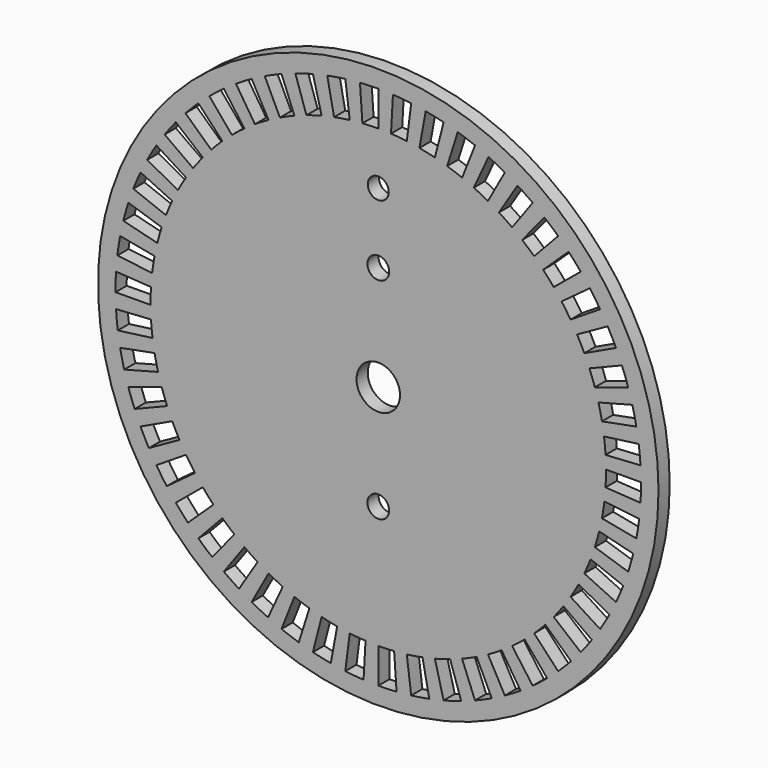
from build123d import *

# Parameters (mm, degrees)
F0_R     = 40
F1_DEPTH = 1
F2_R     = 3.1
F2_R_2   = 1.5
F2_R_3   = 1.55
F3_DEPTH = 6
F5_DEPTH = 12.5


with BuildPart() as f1:
    # F0 (on Front) → F1 (new body, symmetric)
    with BuildSketch(Plane.XZ):
        Circle(F0_R)
    extrude(amount=F1_DEPTH, both=True)

    # F2 (on Front) → F3 (cut, symmetric)
    with BuildSketch(Plane.XZ):
        Circle(F2_R)
        with Locations((0, 25)):
            Circle(F2_R_2)
        with Locations((0, 15)):
            Circle(F2_R_3)
        with Locations((0, -15)):
            Circle(F2_R_3)
    extrude(amount=F3_DEPTH, both=True, mode=Mode.SUBTRACT)

    # F4 (on Front) → F5 (cut, symmetric)
    with BuildSketch(Plane.XZ):
        with BuildLine():
            ThreePointArc((-2.26369, 32.421069), (-1.132533, 32.480261), (0, 32.5))
            Line((0, 32.5), (0, 37.5))
            ThreePointArc((0, 37.5), (-1.306769, 37.477224), (-2.61195, 37.408926))
            Line((-2.61195, 37.408926), (-2.26369, 32.421069))
        make_face()
        with BuildLine():
            Line((-7.279936, 36.786581), (-6.309278, 31.881703))
            ThreePointArc((-6.309278, 31.881703), (-5.194459, 32.082201), (-4.07333, 32.243728))
            Line((-4.07333, 32.243728), (-4.699996, 37.204301))
            ThreePointArc((-4.699996, 37.204301), (-5.993606, 37.017924), (-7.279936, 36.786581))
        make_face()
        with BuildLine():
            Line((-11.833113, 35.58409), (-10.255364, 30.839544))
            ThreePointArc((-10.255364, 30.839544), (-9.174465, 31.178185), (-8.082421, 31.478953))
            Line((-8.082421, 31.478953), (-9.325871, 36.321869))
            ThreePointArc((-9.325871, 36.321869), (-10.585921, 35.974828), (-11.833113, 35.58409))
        make_face()
        with BuildLine():
            Line((-16.199674, 33.820416), (-14.039717, 29.311028))
            ThreePointArc((-14.039717, 29.311028), (-13.009784, 29.78247), (-11.964048, 30.217736))
            Line((-11.964048, 30.217736), (-13.804671, 34.866618))
            ThreePointArc((-13.804671, 34.866618), (-15.011289, 34.364388), (-16.199674, 33.820416))
        make_face()
        with BuildLine():
            Line((-20.310757, 31.523375), (-17.602656, 27.320258))
            ThreePointArc((-17.602656, 27.320258), (-16.639931, 27.917068), (-15.656994, 28.479967))
            Line((-15.656994, 28.479967), (-18.065763, 32.861501))
            ThreePointArc((-18.065763, 32.861501), (-19.199921, 32.212001), (-20.310757, 31.523375))
        make_face()
        with BuildLine():
            Line((-24.101527, 28.729191), (-20.88799, 24.898632))
            ThreePointArc((-20.88799, 24.898632), (-20.007657, 25.611397), (-19.103021, 26.293052))
            Line((-19.103021, 26.293052), (-22.041947, 30.338137))
            ThreePointArc((-22.041947, 30.338137), (-23.085758, 29.551612), (-24.101527, 28.729191))
        make_face()
        with BuildLine():
            Line((-27.512202, 25.48193), (-23.843908, 22.084339))
            ThreePointArc((-23.843908, 22.084339), (-23.05985, 22.901819), (-22.247781, 23.69148))
            Line((-22.247781, 23.69148), (-25.670516, 27.336324))
            ThreePointArc((-25.670516, 27.336324), (-26.607519, 26.425176), (-27.512202, 25.48193))
        make_face()
        with BuildLine():
            Line((-30.488992, 21.832804), (-26.423793, 18.921764))
            ThreePointArc((-26.423793, 18.921764), (-25.748375, 19.831066), (-25.04168, 20.71628))
            Line((-25.04168, 20.71628), (-28.894247, 23.9034))
            ThreePointArc((-28.894247, 23.9034), (-29.709664, 22.881999), (-30.488992, 21.832804))
        make_face()
        with BuildLine():
            Line((-32.984954, 17.839362), (-28.58696, 15.46078))
            ThreePointArc((-28.58696, 15.46078), (-28.030833, 16.447565), (-27.440658, 17.414371))
            Line((-27.440658, 17.414371), (-31.662297, 20.093505))
            ThreePointArc((-31.662297, 20.093505), (-32.343269, 18.97796), (-32.984954, 17.839362))
        make_face()
        with BuildLine():
            Line((-34.960722, 13.564583), (-30.299293, 11.755972))
            ThreePointArc((-30.299293, 11.755972), (-29.871228, 12.804676), (-29.406879, 13.837827))
            Line((-29.406879, 13.837827), (-33.931014, 15.966723))
            ThreePointArc((-33.931014, 15.966723), (-34.466802, 14.774626), (-34.960722, 13.564583))
        make_face()
        with BuildLine():
            Line((-36.38514, 9.075881), (-31.533788, 7.865764))
            ThreePointArc((-31.533788, 7.865764), (-31.240536, 8.95985), (-30.909337, 10.043052))
            Line((-30.909337, 10.043052), (-35.664619, 11.588137))
            ThreePointArc((-35.664619, 11.588137), (-36.046772, 10.338288), (-36.38514, 9.075881))
        make_face()
        with BuildLine():
            Line((-37.235741, 4.444048), (-32.270976, 3.851508))
            ThreePointArc((-32.270976, 3.851508), (-32.117162, 4.973721), (-31.924336, 6.089893))
            Line((-31.924336, 6.089893), (-36.835772, 7.026799))
            ThreePointArc((-36.835772, 7.026799), (-37.058264, 5.738909), (-37.235741, 4.444048))
        make_face()
        with BuildLine():
            Line((-37.499113, -0.25787), (-32.499232, -0.223488))
            ThreePointArc((-32.499232, -0.223488), (-32.487281, 0.909154), (-32.435869, 2.040692))
            Line((-32.435869, 2.040692), (-37.426002, 2.354644))
            ThreePointArc((-37.426002, 2.354644), (-37.485324, 1.049024), (-37.499113, -0.25787))
        make_face()
        with BuildLine():
            Line((-37.171102, -4.955722), (-32.214955, -4.294959))
            ThreePointArc((-32.214955, -4.294959), (-32.345057, -3.169751), (-32.435869, -2.040692))
            Line((-32.435869, -2.040692), (-37.426002, -2.354644))
            ThreePointArc((-37.426002, -2.354644), (-37.321219, -3.657405), (-37.171102, -4.955722))
        make_face()
        with BuildLine():
            Line((-36.25688, -9.575419), (-31.422629, -8.298697))
            ThreePointArc((-31.422629, -8.298697), (-31.692731, -7.198667), (-31.924336, -6.089893))
            Line((-31.924336, -6.089893), (-36.835772, -7.026799))
            ThreePointArc((-36.835772, -7.026799), (-36.568536, -8.306154), (-36.25688, -9.575419))
        make_face()
        with BuildLine():
            Line((-34.770865, -14.044106), (-30.13475, -12.171559))
            ThreePointArc((-30.13475, -12.171559), (-30.540592, -11.114056), (-30.909337, -10.043052))
            Line((-30.909337, -10.043052), (-35.664619, -11.588137))
            ThreePointArc((-35.664619, -11.588137), (-35.239145, -12.82391), (-34.770865, -14.044106))
        make_face()
        with BuildLine():
            Line((-32.736494, -18.291309), (-28.371628, -15.852468))
            ThreePointArc((-28.371628, -15.852468), (-28.90681, -14.854169), (-29.406879, -13.837827))
            Line((-29.406879, -13.837827), (-33.931014, -15.966723))
            ThreePointArc((-33.931014, -15.966723), (-33.354011, -17.139426), (-32.736494, -18.291309))
        make_face()
        with BuildLine():
            Line((-30.185848, -22.250047), (-26.161068, -19.283374))
            ThreePointArc((-26.161068, -19.283374), (-26.81715, -18.360023), (-27.440658, -17.414371))
            Line((-27.440658, -17.414371), (-31.662297, -20.093505))
            ThreePointArc((-31.662297, -20.093505), (-30.942865, -21.184642), (-30.185848, -22.250047))
        make_face()
        with BuildLine():
            Line((-27.159153, -25.857889), (-23.537932, -22.41017))
            ThreePointArc((-23.537932, -22.41017), (-24.304568, -21.576329), (-25.04168, -20.71628))
            Line((-25.04168, -20.71628), (-28.894247, -23.9034))
            ThreePointArc((-28.894247, -23.9034), (-28.043732, -24.895765), (-27.159153, -25.857889))
        make_face()
        with BuildLine():
            Line((-23.704142, -29.057936), (-20.54359, -25.183545))
            ThreePointArc((-20.54359, -25.183545), (-21.408688, -24.452364), (-22.247781, -23.69148))
            Line((-22.247781, -23.69148), (-25.670516, -27.336324))
            ThreePointArc((-25.670516, -27.336324), (-24.702332, -28.214266), (-23.704142, -29.057936))
        make_face()
        with BuildLine():
            Line((-19.875303, -31.799722), (-17.225262, -27.559759))
            ThreePointArc((-17.225262, -27.559759), (-18.17518, -26.942769), (-19.103021, -26.293052))
            Line((-19.103021, -26.293052), (-22.041947, -30.338137))
            ThreePointArc((-22.041947, -30.338137), (-20.971362, -31.087811), (-19.875303, -31.799722))
        make_face()
        with BuildLine():
            Line((-15.733018, -34.040008), (-13.635282, -29.50134))
            ThreePointArc((-13.635282, -29.50134), (-14.655039, -29.008272), (-15.656994, -28.479967))
            Line((-15.656994, -28.479967), (-18.065763, -32.861501))
            ThreePointArc((-18.065763, -32.861501), (-16.90966, -33.471083), (-15.733018, -34.040008))
        make_face()
        with BuildLine():
            Line((-11.342614, -35.743462), (-9.830265, -30.977667))
            ThreePointArc((-9.830265, -30.977667), (-10.903779, -30.616296), (-11.964048, -30.217736))
            Line((-11.964048, -30.217736), (-13.804671, -34.866618))
            ThreePointArc((-13.804671, -34.866618), (-12.581284, -35.326496), (-11.342614, -35.743462))
        make_face()
        with BuildLine():
            Line((-6.77333, -36.883221), (-5.87022, -31.965458))
            ThreePointArc((-5.87022, -31.965458), (-6.98056, -31.741484), (-8.082421, -31.478953))
            Line((-8.082421, -31.478953), (-9.325871, -36.321869))
            ThreePointArc((-9.325871, -36.321869), (-8.054492, -36.624789), (-6.77333, -36.883221))
        make_face()
        with BuildLine():
            Line((-2.097227, -37.441309), (-1.817597, -32.449135))
            ThreePointArc((-1.817597, -32.449135), (-2.947254, -32.366089), (-4.07333, -32.243728))
            Line((-4.07333, -32.243728), (-4.699996, -37.204301))
            ThreePointArc((-4.699996, -37.204301), (-3.400677, -37.345487), (-2.097227, -37.441309))
        make_face()
        with BuildLine():
            Line((2.61195, -37.408926), (2.26369, -32.421069))
            ThreePointArc((2.26369, -32.421069), (1.132533, -32.480261), (0, -32.5))
            Line((0, -32.5), (0, -37.5))
            ThreePointArc((0, -37.5), (1.306769, -37.477224), (2.61195, -37.408926))
        make_face()
        with BuildLine():
            Line((7.279936, -36.786581), (6.309278, -31.881703))
            ThreePointArc((6.309278, -31.881703), (5.194459, -32.082201), (4.07333, -32.243728))
            Line((4.07333, -32.243728), (4.699996, -37.204301))
            ThreePointArc((4.699996, -37.204301), (5.993606, -37.017924), (7.279936, -36.786581))
        make_face()
        with BuildLine():
            Line((11.833113, -35.58409), (10.255364, -30.839544))
            ThreePointArc((10.255364, -30.839544), (9.174465, -31.178185), (8.082421, -31.478953))
            Line((8.082421, -31.478953), (9.325871, -36.321869))
            ThreePointArc((9.325871, -36.321869), (10.585921, -35.974828), (11.833113, -35.58409))
        make_face()
        with BuildLine():
            Line((16.199674, -33.820416), (14.039717, -29.311028))
            ThreePointArc((14.039717, -29.311028), (13.009784, -29.78247), (11.964048, -30.217736))
            Line((11.964048, -30.217736), (13.804671, -34.866618))
            ThreePointArc((13.804671, -34.866618), (15.011289, -34.364388), (16.199674, -33.820416))
        make_face()
        with BuildLine():
            Line((20.310757, -31.523375), (17.602656, -27.320258))
            ThreePointArc((17.602656, -27.320258), (16.639931, -27.917068), (15.656994, -28.479967))
            Line((15.656994, -28.479967), (18.065763, -32.861501))
            ThreePointArc((18.065763, -32.861501), (19.199921, -32.212001), (20.310757, -31.523375))
        make_face()
        with BuildLine():
            Line((24.101527, -28.729191), (20.88799, -24.898632))
            ThreePointArc((20.88799, -24.898632), (20.007657, -25.611397), (19.103021, -26.293052))
            Line((19.103021, -26.293052), (22.041947, -30.338137))
            ThreePointArc((22.041947, -30.338137), (23.085758, -29.551612), (24.101527, -28.729191))
        make_face()
        with BuildLine():
            Line((27.512202, -25.48193), (23.843908, -22.084339))
            ThreePointArc((23.843908, -22.084339), (23.05985, -22.901819), (22.247781, -23.69148))
            Line((22.247781, -23.69148), (25.670516, -27.336324))
            ThreePointArc((25.670516, -27.336324), (26.607519, -26.425176), (27.512202, -25.48193))
        make_face()
        with BuildLine():
            Line((30.488992, -21.832804), (26.423793, -18.921764))
            ThreePointArc((26.423793, -18.921764), (25.748375, -19.831066), (25.04168, -20.71628))
            Line((25.04168, -20.71628), (28.894247, -23.9034))
            ThreePointArc((28.894247, -23.9034), (29.709664, -22.881999), (30.488992, -21.832804))
        make_face()
        with BuildLine():
            Line((32.984954, -17.839362), (28.58696, -15.46078))
            ThreePointArc((28.58696, -15.46078), (28.030833, -16.447565), (27.440658, -17.414371))
            Line((27.440658, -17.414371), (31.662297, -20.093505))
            ThreePointArc((31.662297, -20.093505), (32.343269, -18.97796), (32.984954, -17.839362))
        make_face()
        with BuildLine():
            Line((34.960722, -13.564583), (30.299293, -11.755972))
            ThreePointArc((30.299293, -11.755972), (29.871228, -12.804676), (29.406879, -13.837827))
            Line((29.406879, -13.837827), (33.931014, -15.966723))
            ThreePointArc((33.931014, -15.966723), (34.466802, -14.774626), (34.960722, -13.564583))
        make_face()
        with BuildLine():
            Line((36.38514, -9.075881), (31.533788, -7.865764))
            ThreePointArc((31.533788, -7.865764), (31.240536, -8.95985), (30.909337, -10.043052))
            Line((30.909337, -10.043052), (35.664619, -11.588137))
            ThreePointArc((35.664619, -11.588137), (36.046772, -10.338288), (36.38514, -9.075881))
        make_face()
        with BuildLine():
            Line((37.235741, -4.444048), (32.270976, -3.851508))
            ThreePointArc((32.270976, -3.851508), (32.117162, -4.973721), (31.924336, -6.089893))
            Line((31.924336, -6.089893), (36.835772, -7.026799))
            ThreePointArc((36.835772, -7.026799), (37.058264, -5.738909), (37.235741, -4.444048))
        make_face()
        with BuildLine():
            Line((37.499113, 0.25787), (32.499232, 0.223488))
            ThreePointArc((32.499232, 0.223488), (32.487281, -0.909154), (32.435869, -2.040692))
            Line((32.435869, -2.040692), (37.426002, -2.354644))
            ThreePointArc((37.426002, -2.354644), (37.485324, -1.049024), (37.499113, 0.25787))
        make_face()
        with BuildLine():
            Line((37.171102, 4.955722), (32.214955, 4.294959))
            ThreePointArc((32.214955, 4.294959), (32.345057, 3.169751), (32.435869, 2.040692))
            Line((32.435869, 2.040692), (37.426002, 2.354644))
            ThreePointArc((37.426002, 2.354644), (37.321219, 3.657405), (37.171102, 4.955722))
        make_face()
        with BuildLine():
            Line((36.25688, 9.575419), (31.422629, 8.298697))
            ThreePointArc((31.422629, 8.298697), (31.692731, 7.198667), (31.924336, 6.089893))
            Line((31.924336, 6.089893), (36.835772, 7.026799))
            ThreePointArc((36.835772, 7.026799), (36.568536, 8.306154), (36.25688, 9.575419))
        make_face()
        with BuildLine():
            Line((34.770865, 14.044106), (30.13475, 12.171559))
            ThreePointArc((30.13475, 12.171559), (30.540592, 11.114056), (30.909337, 10.043052))
            Line((30.909337, 10.043052), (35.664619, 11.588137))
            ThreePointArc((35.664619, 11.588137), (35.239145, 12.82391), (34.770865, 14.044106))
        make_face()
        with BuildLine():
            Line((32.736494, 18.291309), (28.371628, 15.852468))
            ThreePointArc((28.371628, 15.852468), (28.90681, 14.854169), (29.406879, 13.837827))
            Line((29.406879, 13.837827), (33.931014, 15.966723))
            ThreePointArc((33.931014, 15.966723), (33.354011, 17.139426), (32.736494, 18.291309))
        make_face()
        with BuildLine():
            Line((30.185848, 22.250047), (26.161068, 19.283374))
            ThreePointArc((26.161068, 19.283374), (26.81715, 18.360023), (27.440658, 17.414371))
            Line((27.440658, 17.414371), (31.662297, 20.093505))
            ThreePointArc((31.662297, 20.093505), (30.942865, 21.184642), (30.185848, 22.250047))
        make_face()
        with BuildLine():
            Line((27.159153, 25.857889), (23.537932, 22.41017))
            ThreePointArc((23.537932, 22.41017), (24.304568, 21.576329), (25.04168, 20.71628))
            Line((25.04168, 20.71628), (28.894247, 23.9034))
            ThreePointArc((28.894247, 23.9034), (28.043732, 24.895765), (27.159153, 25.857889))
        make_face()
        with BuildLine():
            Line((23.704142, 29.057936), (20.54359, 25.183545))
            ThreePointArc((20.54359, 25.183545), (21.408688, 24.452364), (22.247781, 23.69148))
            Line((22.247781, 23.69148), (25.670516, 27.336324))
            ThreePointArc((25.670516, 27.336324), (24.702332, 28.214266), (23.704142, 29.057936))
        make_face()
        with BuildLine():
            Line((19.875303, 31.799722), (17.225262, 27.559759))
            ThreePointArc((17.225262, 27.559759), (18.17518, 26.942769), (19.103021, 26.293052))
            Line((19.103021, 26.293052), (22.041947, 30.338137))
            ThreePointArc((22.041947, 30.338137), (20.971362, 31.087811), (19.875303, 31.799722))
        make_face()
        with BuildLine():
            Line((15.733018, 34.040008), (13.635282, 29.50134))
            ThreePointArc((13.635282, 29.50134), (14.655039, 29.008272), (15.656994, 28.479967))
            Line((15.656994, 28.479967), (18.065763, 32.861501))
            ThreePointArc((18.065763, 32.861501), (16.90966, 33.471083), (15.733018, 34.040008))
        make_face()
        with BuildLine():
            Line((11.342614, 35.743462), (9.830265, 30.977667))
            ThreePointArc((9.830265, 30.977667), (10.903779, 30.616296), (11.964048, 30.217736))
            Line((11.964048, 30.217736), (13.804671, 34.866618))
            ThreePointArc((13.804671, 34.866618), (12.581284, 35.326496), (11.342614, 35.743462))
        make_face()
        with BuildLine():
            Line((6.77333, 36.883221), (5.87022, 31.965458))
            ThreePointArc((5.87022, 31.965458), (6.98056, 31.741484), (8.082421, 31.478953))
            Line((8.082421, 31.478953), (9.325871, 36.321869))
            ThreePointArc((9.325871, 36.321869), (8.054492, 36.624789), (6.77333, 36.883221))
        make_face()
        with BuildLine():
            Line((2.097227, 37.441309), (1.817597, 32.449135))
            ThreePointArc((1.817597, 32.449135), (2.947254, 32.366089), (4.07333, 32.243728))
            Line((4.07333, 32.243728), (4.699996, 37.204301))
            ThreePointArc((4.699996, 37.204301), (3.400677, 37.345487), (2.097227, 37.441309))
        make_face()
    extrude(amount=F5_DEPTH, both=True, mode=Mode.SUBTRACT)


solid = f1.part
